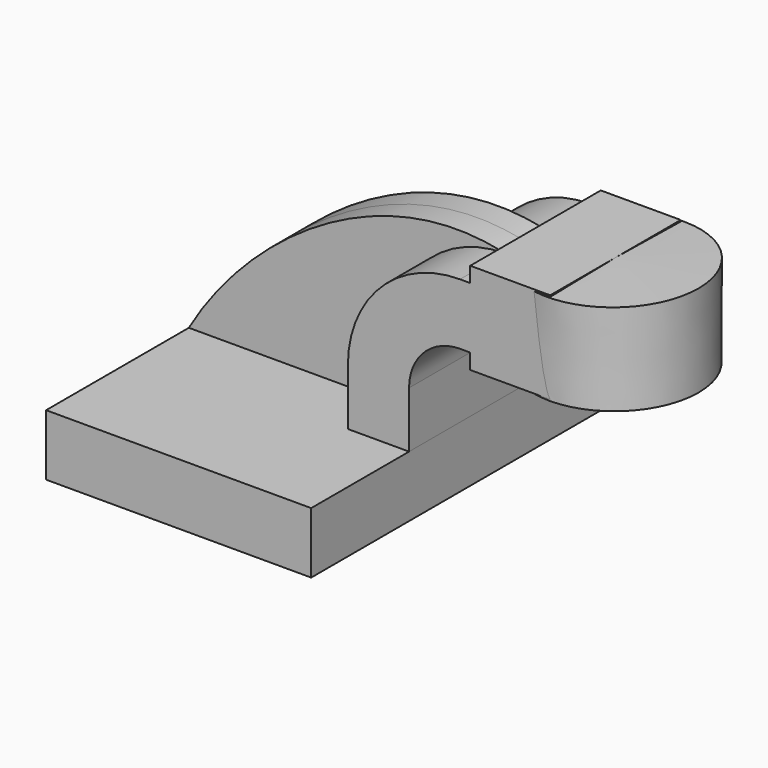
from build123d import *

# Parameters (mm, degrees)
F1_DEPTH = 63.5
F2_DEPTH = 25.4
F3_DEPTH = 7.9375


with BuildPart() as f1:
    # F0 (on Front) → F1 (new body, symmetric)
    with BuildSketch(Plane.XZ):
        Polygon((-41.275, 9.525), (-41.275, -9.525), (41.275, -9.525), (41.275, 9.525), (22.225, 9.525), align=None)
    extrude(amount=F1_DEPTH, both=True)


with BuildPart() as f2:
    # F0 (on Front) → F2 (new body, symmetric)
    with BuildSketch(Plane.XZ):
        with BuildLine():
            Line((22.225, 9.525), (41.275, 9.525))
            Line((41.275, 9.525), (41.275, 27.0002))
            ThreePointArc((41.275, 27.0002), (45.9246798487, 38.2255201513), (57.15, 42.8752))
            Line((57.15, 42.8752), (60.325, 42.8752))
            Line((60.325, 42.8752), (60.325, 61.9252))
            Line((60.325, 61.9252), (57.15, 61.9252))
            ThreePointArc((57.15, 61.9252), (32.4542956671, 51.6959043329), (22.225, 27.0002))
            Line((22.225, 27.0002), (22.225, 9.525))
        make_face()
        Polygon((60.325, 66.675), (60.325, 61.9252), (60.325, 42.8752), (60.325, 38.1), (85.725, 38.1), (85.2254782739, 66.675), align=None)
    extrude(amount=F2_DEPTH, both=True)

    # F0 (on Front) → F4 (revolve)
    with BuildSketch(Plane.XZ):
        Polygon((111.125, 66.675), (85.2254782739, 66.675), (85.725, 38.1), (111.125, 38.1), align=None)
    revolve(axis=Axis((85.4752391369, 0, 52.3875), (-0.0174784049, 0, 0.999847241)))


with BuildPart() as f3:
    # F0 (on Front) → F3 (new body, symmetric)
    with BuildSketch(Plane.XZ):
        with BuildLine():
            add(Edge.make_bspline(
                [(-41.275, 9.525), (-22.7622389793, 41.644051671), (18.2747561485, 71.2683945894), (57.15, 61.9252)],
                knots=[0, 0, 0, 0, 111.5045361635, 111.5045361635, 111.5045361635, 111.5045361635], degree=3))
            Line((-41.275, 9.525), (22.225, 9.525))
            Line((22.225, 9.525), (22.225, 27.0002))
            ThreePointArc((22.225, 27.0002), (32.4542956671, 51.6959043329), (57.15, 61.9252))
        make_face()
    extrude(amount=F3_DEPTH, both=True)


solid = Compound([f1.part, f2.part, f3.part])
